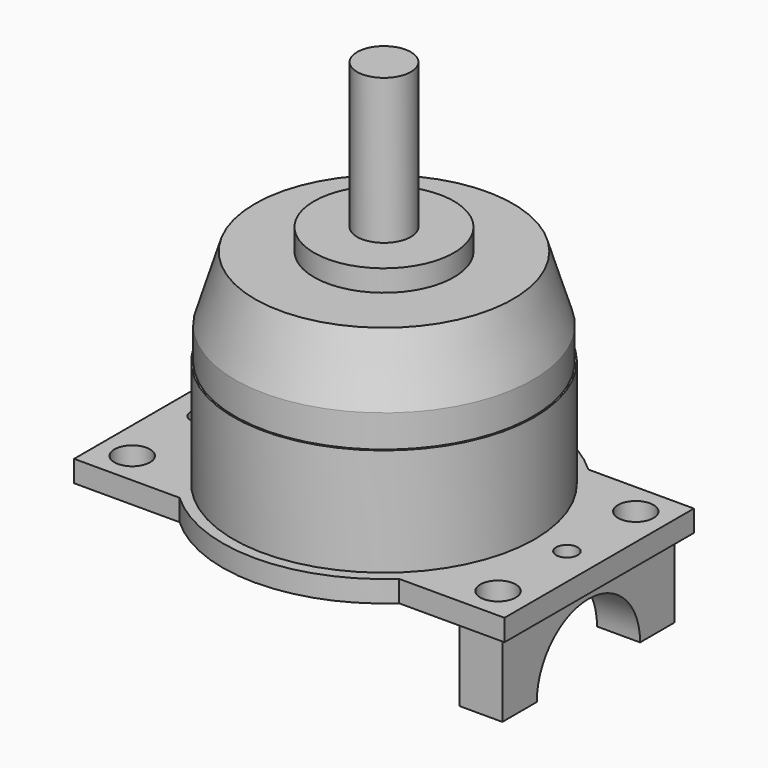
from build123d import *

# Parameters (mm, degrees)
F3_D       = 2.4
F3_DEPTH   = 3
F3_TIP     = 0.7210327428
F5_DEPTH   = 2
F6_D       = 3.3
F6_ON_F4_D = 3.3
F7_D       = 2
F8_D       = 8
F9_W       = 4
F9_H       = 20
F9_R       = 1.65
F9_R_2     = 1
F10_DEPTH  = 7.25
F11_R      = 6
F12_DEPTH  = 25
F13_R      = 14
F13_R_2    = 1.65
F13_R_3    = 4
F14_DEPTH  = 10


with BuildPart() as f1:
    # F0 (on Front) → F1 (revolve)
    with BuildSketch(Plane.XZ):
        Polygon((-12, 0), (0, 0), (0, 34.5), (-2.5, 34.5), (-2.5, 21), (-6.5, 21), (-6.5, 19), (-12, 19), (-13.85, 13), (-13.85, 6), align=None)
    revolve(axis=Axis((0, 0, 17.25), (0, 0, 1)))

    # F3
    with Locations(Plane(origin=(0, 0, 0), x_dir=(1, 0, 0), z_dir=(0, 0, -1))):
        with Locations((0, 8), (-9.5, 0), (0, -8), (9.5, 0)):
            Hole(F3_D / 2, depth=F3_DEPTH)
            with Locations((0, 0, -(F3_DEPTH + F3_TIP / 2))):  # 118° drill point
                Cone(0, F3_D / 2, F3_TIP, mode=Mode.SUBTRACT)


with BuildPart() as f5:
    # F4 (on face) → F5 (new body)
    with BuildSketch(Plane(origin=(0, 0, 0), x_dir=(1, 0, 0), z_dir=(0, 0, -1))):
        with BuildLine():
            Line((10.1980390272, -11), (20, -11))
            Line((20, -11), (20, 11))
            Line((20, 11), (10.1980390272, 11))
            ThreePointArc((10.1980390272, 11), (13.7471921753, 6.0012254829), (15, 0))
            ThreePointArc((15, 0), (13.7471921753, -6.0012254829), (10.1980390272, -11))
        make_face()
        with BuildLine():
            ThreePointArc((-10.1980390272, -11), (0, -15), (10.1980390272, -11))
            Line((10.1980390272, -11), (-10.1980390272, -11))
        make_face()
        with BuildLine():
            Line((-10.1980390272, -11), (10.1980390272, -11))
            ThreePointArc((10.1980390272, -11), (13.7471921753, -6.0012254829), (15, 0))
            ThreePointArc((15, 0), (13.7471921753, 6.0012254829), (10.1980390272, 11))
            Line((10.1980390272, 11), (-10.1980390272, 11))
            ThreePointArc((-10.1980390272, 11), (-15, 0), (-10.1980390272, -11))
        make_face()
        with BuildLine():
            Line((-20, -11), (-10.1980390272, -11))
            ThreePointArc((-10.1980390272, -11), (-15, 0), (-10.1980390272, 11))
            Line((-10.1980390272, 11), (-20, 11))
            Line((-20, 11), (-20, -11))
        make_face()
        with BuildLine():
            Line((-10.1980390272, 11), (10.1980390272, 11))
            ThreePointArc((10.1980390272, 11), (0, 15), (-10.1980390272, 11))
        make_face()
    extrude(amount=F5_DEPTH)

    # F6 (through all)
    with Locations(Plane.XY):
        with Locations((0, -8), (-9.5, 0), (9.5, 0), (0, 8)):
            Hole(F6_D / 2)

    # F6 on F4 (through all)
    with Locations(Plane.XY):
        with Locations((-17, -8), (17, -8), (-17, 8), (17, 8)):
            Hole(F6_ON_F4_D / 2)

    # F7 (through all)
    with Locations(Plane.XY):
        with Locations((-17, 0), (17, 0)):
            Hole(F7_D / 2)

    # F8 (through all)
    with Locations(Plane.XY):
        with Locations((0, 0)):
            Hole(F8_D / 2)


with BuildPart() as f10:
    # F9 (on face) → F10 (new body)
    with BuildSketch(Plane(origin=(0, 0, -2), x_dir=(1, 0, 0), z_dir=(0, 0, -1))):
        with Locations((17, 0)):
            Rectangle(F9_W, F9_H)
        with Locations((17, -8)):
            Circle(F9_R, mode=Mode.SUBTRACT)
        with Locations((17, 0)):
            Circle(F9_R_2, mode=Mode.SUBTRACT)
        with Locations((17, 8)):
            Circle(F9_R, mode=Mode.SUBTRACT)
    extrude(amount=F10_DEPTH)

    # F11 (on face) → F12 (cut)
    with BuildSketch(Plane.YZ.offset(19)):
        with Locations((0, -9.25)):
            Circle(F11_R)
    extrude(amount=-F12_DEPTH, mode=Mode.SUBTRACT)


with BuildPart() as f14:
    # F13 (on face) → F14 (new body)
    with BuildSketch(Plane.XY):
        Circle(F13_R)
        with Locations((-9.5, 0)):
            Circle(F13_R_2, mode=Mode.SUBTRACT)
        with Locations((0, -8)):
            Circle(F13_R_2, mode=Mode.SUBTRACT)
        Circle(F13_R_3, mode=Mode.SUBTRACT)
        with Locations((9.5, 0)):
            Circle(F13_R_2, mode=Mode.SUBTRACT)
        with Locations((0, 8)):
            Circle(F13_R_2, mode=Mode.SUBTRACT)
    extrude(amount=F14_DEPTH)


solid = Compound([f1.part, f5.part, f10.part, f14.part])
